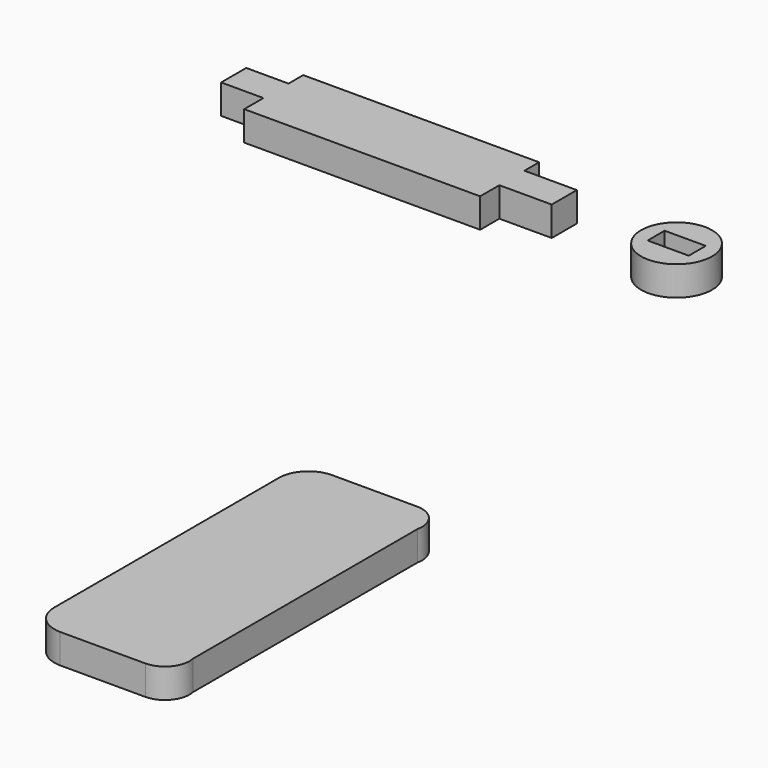
from build123d import *

# Parameters (mm, degrees)
F0_R     = 3.05772
F0_W     = 3.54523
F0_H     = 1.830734
F1_DEPTH = 2.54


with BuildPart() as f1:
    # F0 (on Top) → F1 (new body)
    with BuildSketch(Plane.XY):
        with BuildLine():
            ThreePointArc((0, 12.098325), (-0.43517, 13.860462), (-2.075118, 14.638325))
            Line((-2.075118, 14.638325), (-9.407192, 14.638325))
            ThreePointArc((-9.407192, 14.638325), (-11.203243, 13.894376), (-11.947192, 12.098325))
            Line((-11.947192, 12.098325), (-11.947192, -12.098325))
            ThreePointArc((-11.947192, -12.098325), (-11.203243, -13.894376), (-9.407192, -14.638325))
            Line((-9.407192, -14.638325), (-2.075118, -14.638325))
            ThreePointArc((-2.075118, -14.638325), (-0.43517, -13.860462), (0, -12.098325))
            Line((0, -12.098325), (0, 12.098325))
        make_face()
        Polygon((-27.002677, 58.943175), (-47.333289, 58.943175), (-47.333289, 57.362746), (-50.978515, 57.362746), (-50.978515, 54.660235), (-47.333289, 54.660235), (-47.333289, 52.589856), (-27.002677, 52.589856), (-27.002677, 54.660235), (-22.488931, 54.660235), (-22.488931, 57.362746), (-27.002677, 57.362746), align=None)
        with Locations((-12.405046, 55.500653)):
            Circle(F0_R)
        with Locations((-12.405046, 55.515181)):
            Rectangle(F0_W, F0_H, mode=Mode.SUBTRACT)
    extrude(amount=F1_DEPTH)


solid = f1.part
